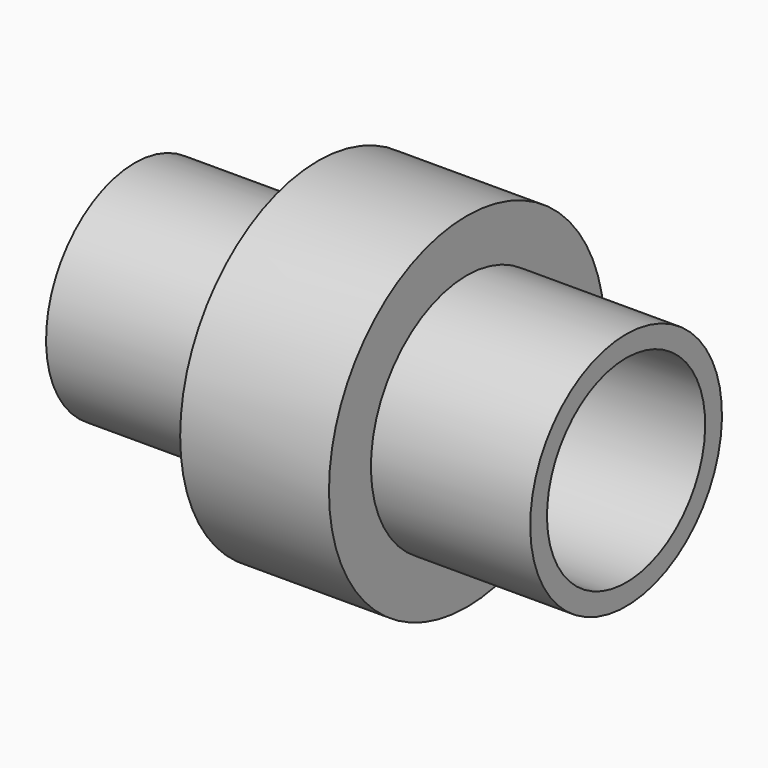
from build123d import *

# Parameters (mm, degrees)
F2_W = 6.942466
F2_H = 16.743593


with BuildPart() as f4:
    # F3 (on Front) → F4 (revolve)
    with BuildSketch(Plane.XZ):
        Polygon((9.811549, 46.047769), (9.811549, 33.157088), (24.685381, 33.244226), (24.685381, 46.047769), align=None)
    revolve(axis=Axis((-37.262052, 0, 0), (1, 0, 0)))


with BuildPart() as f5:
    # F2 (on Front) → F5 (revolve)
    with BuildSketch(Plane.XZ):
        with Locations((32.057829, 41.858967)):
            Rectangle(F2_W, F2_H)
    revolve(axis=Axis((-37.262052, 0, 0), (1, 0, 0)))


with BuildPart() as f6:
    # F1 (on Front) → F6 (revolve)
    with BuildSketch(Plane.XZ):
        Polygon((0, 49.822383), (0, 31.445272), (6.329879, 31.649463), (6.329879, 49.822383), align=None)
    revolve(axis=Axis((-37.262052, 0, 0), (1, 0, 0)))


with BuildPart() as f7:
    # F0 (on Front) → F7 (revolve)
    with BuildSketch(Plane.XZ):
        Polygon((-69.355756, 30.843295), (-7.502437, 30.843295), (0, 31.510144), (0, 50.683007), (35.511479, 50.683007), (35.511479, 33.010662), (94.697267, 33.010662), (94.697267, 40.012926), (41.513398, 40.012926), (41.513398, 57.518579), (-8.169323, 57.518579), (-8.169323, 37.011951), (-69.355756, 37.011951), align=None)
    revolve(axis=Axis((-37.262052, 0, 0), (1, 0, 0)))


solid = Compound([f4.part, f5.part, f6.part, f7.part])
